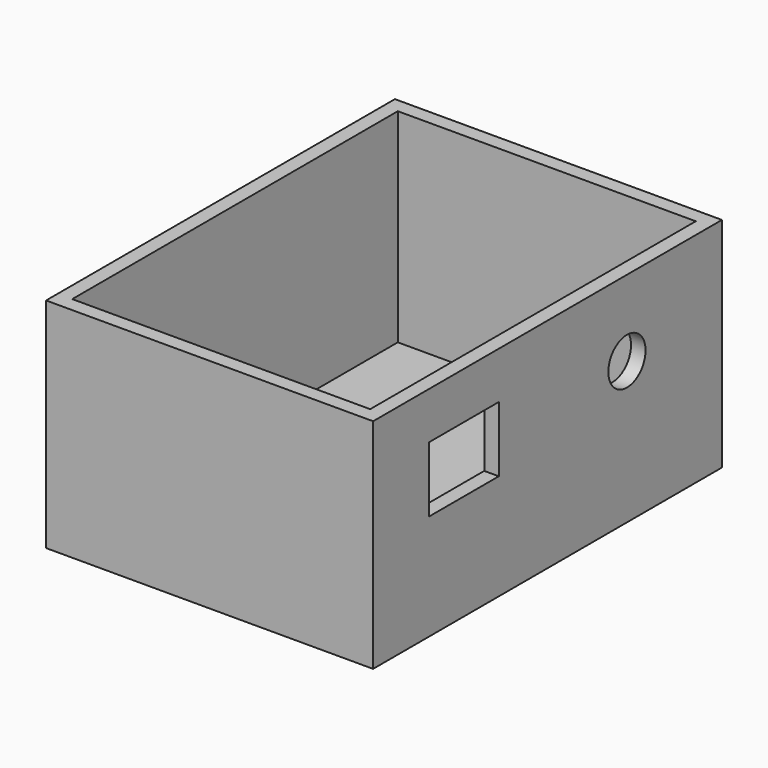
from build123d import *

# Parameters (mm, degrees)
F0_W     = 57.15
F0_H     = 76.2
F1_DEPTH = 38.1
F2_T     = -2.54
F3_W     = 15.24
F3_H     = 11.43
F4_DEPTH = 25.4
F6_D     = 8.128
F6_DEPTH = 12.7


with BuildPart() as f1:
    # F0 (on Top) → F1 (new body)
    with BuildSketch(Plane.XY):
        Rectangle(F0_W, F0_H)
    extrude(amount=F1_DEPTH)

    # F2
    f2_openings = [f1.faces().sort_by_distance(p)[0] for p in [
        (0, 0, 38.1),
    ]]
    offset(amount=F2_T, openings=f2_openings)

    # F3 (on face) → F4 (cut)
    with BuildSketch(Plane.YZ.offset(28.575)):
        with Locations((-18.261918, 24.186697)):
            Rectangle(F3_W, F3_H)
    extrude(amount=-F4_DEPTH, mode=Mode.SUBTRACT)

    # F6
    with Locations(Plane.YZ.offset(28.575)):
        with Locations((17.349107, 24.799019)):
            Hole(F6_D / 2, depth=F6_DEPTH)


solid = f1.part
